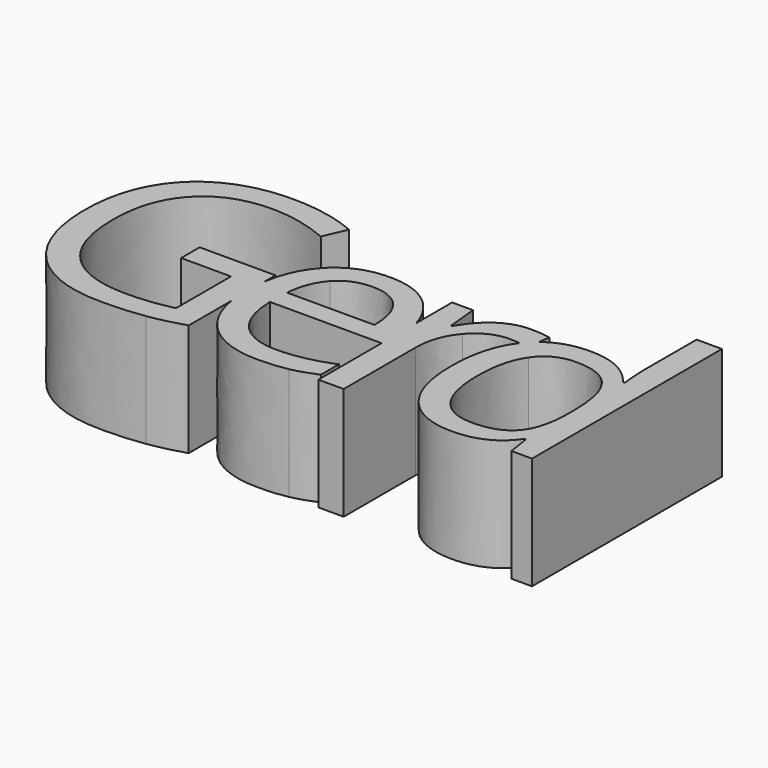
from build123d import *

# Parameters (mm, degrees)
F1_DEPTH = 10


with BuildPart() as f1:
    # F0 (on Top) → F1 (new body)
    with BuildSketch(Plane.XY):
        with BuildLine():
            Line((-19.2639721345, 10.390625), (-26.0044235234, 10.390625))
            Line((-26.0044235234, 10.390625), (-26.0044235234, 8.3289930556))
            Line((-26.0044235234, 8.3289930556), (-21.5729999123, 8.3289930556))
            Line((-21.5729999123, 8.3289930556), (-21.5729999123, 2.2265625))
            add(Edge.make_bspline(
                [(-25.6007776901, 1.7491319444), (-23.5391457456, 1.7491319444), (-21.5729999123, 2.2265625)],
                knots=[0, 0, 0, 1, 1, 1], degree=2))
            add(Edge.make_bspline(
                [(-31.3581561623, 3.8237847222), (-29.3985207456, 1.7491319444), (-25.6007776901, 1.7491319444)],
                knots=[0, 0, 0, 1, 1, 1], degree=2))
            add(Edge.make_bspline(
                [(-33.317791579, 9.9131944444), (-33.317791579, 5.8984375), (-31.3581561623, 3.8237847222)],
                knots=[0, 0, 0, 1, 1, 1], degree=2))
            add(Edge.make_bspline(
                [(-31.2822013012, 15.8962673611), (-33.317791579, 13.7413194444), (-33.317791579, 9.9131944444)],
                knots=[0, 0, 0, 1, 1, 1], degree=2))
            add(Edge.make_bspline(
                [(-25.6268193567, 18.0512152778), (-29.2466110234, 18.0512152778), (-31.2822013012, 15.8962673611)],
                knots=[0, 0, 0, 1, 1, 1], degree=2))
            add(Edge.make_bspline(
                [(-20.4575485234, 16.9140625), (-23.1441804679, 18.0512152778), (-25.6268193567, 18.0512152778)],
                knots=[0, 0, 0, 1, 1, 1], degree=2))
            Line((-20.4575485234, 16.9140625), (-19.5634513012, 18.9496527778))
            add(Edge.make_bspline(
                [(-25.4792499123, 20.1128472222), (-22.302166579, 20.1128472222), (-19.5634513012, 18.9496527778)],
                knots=[0, 0, 0, 1, 1, 1], degree=2))
            add(Edge.make_bspline(
                [(-30.9414894956, 18.88671875), (-28.6085901901, 20.1128472222), (-25.4792499123, 20.1128472222)],
                knots=[0, 0, 0, 1, 1, 1], degree=2))
            add(Edge.make_bspline(
                [(-34.5157082456, 15.3342013889), (-33.2743888012, 17.6605902778), (-30.9414894956, 18.88671875)],
                knots=[0, 0, 0, 1, 1, 1], degree=2))
            add(Edge.make_bspline(
                [(-35.7570276901, 9.9131944444), (-35.7570276901, 13.0078125), (-34.5157082456, 15.3342013889)],
                knots=[0, 0, 0, 1, 1, 1], degree=2))
            add(Edge.make_bspline(
                [(-33.2483471345, 2.4066840278), (-35.7570276901, 5.0868055556), (-35.7570276901, 9.9131944444)],
                knots=[0, 0, 0, 1, 1, 1], degree=2))
            add(Edge.make_bspline(
                [(-26.2387985234, -0.2734375), (-30.739666579, -0.2734375), (-33.2483471345, 2.4066840278)],
                knots=[0, 0, 0, 1, 1, 1], degree=2))
            add(Edge.make_bspline(
                [(-22.4670971345, -0.0151909722), (-24.0947013012, -0.2734375), (-26.2387985234, -0.2734375)],
                knots=[0, 0, 0, 1, 1, 1], degree=2))
            add(Edge.make_bspline(
                [(-19.2639721345, 0.7465277778), (-20.8394929679, 0.2430555556), (-22.4670971345, -0.0151909722)],
                knots=[0, 0, 0, 1, 1, 1], degree=2))
            Line((-19.2639721345, 0.7465277778), (-19.2639721345, 5.4885631994))
            add(Edge.make_bspline(
                [(-19.2639721345, 5.4885631994), (-19.4045971345, 6.3415215978), (-19.4045971345, 7.3090277778)],
                knots=[0.7284854764, 0.7284854764, 0.7284854764, 1, 1, 1], degree=2))
            add(Edge.make_bspline(
                [(-19.4045971345, 7.3090277778), (-19.4045971345, 8.3229729678), (-19.2639721345, 9.2192136542)],
                knots=[0, 0, 0, 0.281800931, 0.281800931, 0.281800931], degree=2))
            Line((-19.2639721345, 9.2192136542), (-19.2639721345, 10.390625))
        make_face()
        with BuildLine():
            add(Edge.make_bspline(
                [(-19.2639721345, 9.2192136542), (-18.9055746526, 11.5033765358), (-17.6337638012, 13.0230034722)],
                knots=[0.281800931, 0.281800931, 0.281800931, 1, 1, 1], degree=2))
            Line((-19.2639721345, 9.2192136542), (-19.2639721345, 5.4885631994))
            add(Edge.make_bspline(
                [(-17.4970450512, 1.7361111111), (-18.8866690394, 3.2000380885), (-19.2639721345, 5.4885631994)],
                knots=[0, 0, 0, 0.7284854764, 0.7284854764, 0.7284854764], degree=2))
            add(Edge.make_bspline(
                [(-12.2952221345, -0.2734375), (-15.5894929679, -0.2734375), (-17.4970450512, 1.7361111111)],
                knots=[0, 0, 0, 1, 1, 1], degree=2))
            add(Edge.make_bspline(
                [(-9.7257776901, -0.0477430556), (-10.7891457456, -0.2734375), (-12.2952221345, -0.2734375)],
                knots=[0, 0, 0, 1, 1, 1], degree=2))
            add(Edge.make_bspline(
                [(-7.4688332456, 0.6901041667), (-8.6624096345, 0.1779513889), (-9.7257776901, -0.0477430556)],
                knots=[0, 0, 0, 1, 1, 1], degree=2))
            Line((-7.4688332456, 0.6901041667), (-7.4688332456, 2.6996527778))
            add(Edge.make_bspline(
                [(-12.2127568567, 1.6970486111), (-9.8125832456, 1.6970486111), (-7.4688332456, 2.6996527778)],
                knots=[0, 0, 0, 1, 1, 1], degree=2))
            add(Edge.make_bspline(
                [(-15.7457429679, 3.0533854167), (-14.4914026901, 1.6970486111), (-12.2127568567, 1.6970486111)],
                knots=[0, 0, 0, 1, 1, 1], degree=2))
            add(Edge.make_bspline(
                [(-17.0695276901, 7.0269097222), (-17.0000832456, 4.4097222222), (-15.7457429679, 3.0533854167)],
                knots=[0, 0, 0, 1, 1, 1], degree=2))
            Line((-17.0695276901, 7.0269097222), (-7.1424443567, 7.0269097222))
            Line((-7.1424443567, 7.0269097222), (-7.1424443567, 10.8617799358))
            add(Edge.make_bspline(
                [(-8.458416579, 13.30078125), (-7.5430016085, 12.2669726101), (-7.1424443567, 10.8617799358)],
                knots=[0, 0, 0, 0.5624309578, 0.5624309578, 0.5624309578], degree=2))
            add(Edge.make_bspline(
                [(-12.8768193567, 15.1388888889), (-10.0860207456, 15.1388888889), (-8.458416579, 13.30078125)],
                knots=[0, 0, 0, 1, 1, 1], degree=2))
            add(Edge.make_bspline(
                [(-17.6337638012, 13.0230034722), (-15.8629304679, 15.1388888889), (-12.8768193567, 15.1388888889)],
                knots=[0, 0, 0, 1, 1, 1], degree=2))
        make_face()
        with BuildLine():
            add(Edge.make_bspline(
                [(-12.9072013012, 13.2508680556), (-14.6953957456, 13.2508680556), (-15.7609339401, 12.0855034722)],
                knots=[0, 0, 0, 1, 1, 1], degree=2))
            add(Edge.make_bspline(
                [(-10.1923575512, 12.1180555556), (-11.1407082456, 13.2508680556), (-12.9072013012, 13.2508680556)],
                knots=[0, 0, 0, 1, 1, 1], degree=2))
            add(Edge.make_bspline(
                [(-9.2440068567, 8.8585069444), (-9.2440068567, 10.9852430556), (-10.1923575512, 12.1180555556)],
                knots=[0, 0, 0, 1, 1, 1], degree=2))
            Line((-9.2440068567, 8.8585069444), (-17.0174443567, 8.8585069444))
            add(Edge.make_bspline(
                [(-15.7609339401, 12.0855034722), (-16.8264721345, 10.9201388889), (-17.0174443567, 8.8585069444)],
                knots=[0, 0, 0, 1, 1, 1], degree=2))
        make_face(mode=Mode.SUBTRACT)
        with BuildLine():
            Line((-19.2639721345, 5.4885631994), (-19.2639721345, 9.2192136542))
            add(Edge.make_bspline(
                [(-19.4045971345, 7.3090277778), (-19.4045971345, 8.3229729678), (-19.2639721345, 9.2192136542)],
                knots=[0, 0, 0, 0.281800931, 0.281800931, 0.281800931], degree=2))
            add(Edge.make_bspline(
                [(-19.2639721345, 5.4885631994), (-19.4045971345, 6.3415215978), (-19.4045971345, 7.3090277778)],
                knots=[0.7284854764, 0.7284854764, 0.7284854764, 1, 1, 1], degree=2))
        make_face()
        with BuildLine():
            Line((-7.1424443567, 14.8654513889), (-7.1424443567, 10.8617799358))
            add(Edge.make_bspline(
                [(-7.1424443567, 10.8617799358), (-6.8308124123, 9.7685456392), (-6.8308124123, 8.4505208333)],
                knots=[0.5624309578, 0.5624309578, 0.5624309578, 1, 1, 1], degree=2))
            Line((-6.8308124123, 8.4505208333), (-6.8308124123, 7.0269097222))
            Line((-6.8308124123, 7.0269097222), (-7.1424443567, 7.0269097222))
            Line((-7.1424443567, 7.0269097222), (-7.1424443567, 0))
            Line((-7.1424443567, 0), (-4.8898401901, 0))
            Line((-4.8898401901, 0), (-4.8898401901, 7.9774305556))
            add(Edge.make_bspline(
                [(-3.6094582456, 11.6254340278), (-4.8898401901, 10.1605902778), (-4.8898401901, 7.9774305556)],
                knots=[0, 0, 0, 1, 1, 1], degree=2))
            add(Edge.make_bspline(
                [(-0.5235207456, 13.0902777778), (-2.3290763012, 13.0902777778), (-3.6094582456, 11.6254340278)],
                knots=[0, 0, 0, 1, 1, 1], degree=2))
            add(Edge.make_bspline(
                [(0.3423106553, 13.0253661611), (-0.1244419518, 13.0902777778), (-0.5235207456, 13.0902777778)],
                knots=[0.435903349, 0.435903349, 0.435903349, 1, 1, 1], degree=2))
            add(Edge.make_bspline(
                [(0.3423106553, 13.0253661611), (0.3726429305, 13.0646284266), (0.4035625877, 13.1032986111)],
                knots=[0.9810029626, 0.9810029626, 0.9810029626, 1, 1, 1], degree=2))
            add(Edge.make_bspline(
                [(0.4035625877, 13.1032986111), (0.7975127784, 13.595998983), (1.266219631, 13.9694446802)],
                knots=[0, 0, 0, 0.2420429972, 0.2420429972, 0.2420429972], degree=2))
            Line((1.266219631, 13.9694446802), (1.416583421, 14.9739583333))
            add(Edge.make_bspline(
                [(-0.3585901901, 15.1388888889), (0.6309931433, 15.1388888889), (1.416583421, 14.9739583333)],
                knots=[0, 0, 0, 1, 1, 1], degree=2))
            add(Edge.make_bspline(
                [(-2.9236943567, 14.3511284722), (-1.7561596345, 15.1388888889), (-0.3585901901, 15.1388888889)],
                knots=[0, 0, 0, 1, 1, 1], degree=2))
            add(Edge.make_bspline(
                [(-4.9158818567, 12.1137152778), (-4.091229079, 13.5633680556), (-2.9236943567, 14.3511284722)],
                knots=[0, 0, 0, 1, 1, 1], degree=2))
            Line((-4.9158818567, 12.1137152778), (-5.0243888012, 12.1137152778))
            Line((-5.0243888012, 12.1137152778), (-5.2848054679, 14.8654513889))
            Line((-5.2848054679, 14.8654513889), (-7.1424443567, 14.8654513889))
        make_face()
        with BuildLine():
            add(Edge.make_bspline(
                [(-7.1424443567, 10.8617799358), (-6.8308124123, 9.7685456392), (-6.8308124123, 8.4505208333)],
                knots=[0.5624309578, 0.5624309578, 0.5624309578, 1, 1, 1], degree=2))
            Line((-7.1424443567, 10.8617799358), (-7.1424443567, 7.0269097222))
            Line((-7.1424443567, 7.0269097222), (-6.8308124123, 7.0269097222))
            Line((-6.8308124123, 7.0269097222), (-6.8308124123, 8.4505208333))
        make_face()
        with BuildLine():
            add(Edge.make_bspline(
                [(0.3423106553, 13.0253661611), (0.3726429305, 13.0646284266), (0.4035625877, 13.1032986111)],
                knots=[0.9810029626, 0.9810029626, 0.9810029626, 1, 1, 1], degree=2))
            add(Edge.make_bspline(
                [(1.104083421, 12.8862847222), (0.7029917978, 12.9752059783), (0.3423106553, 13.0253661611)],
                knots=[0, 0, 0, 0.435903349, 0.435903349, 0.435903349], degree=2))
            Line((1.104083421, 12.8862847222), (1.266219631, 13.9694446802))
            add(Edge.make_bspline(
                [(0.4035625877, 13.1032986111), (0.7975127784, 13.595998983), (1.266219631, 13.9694446802)],
                knots=[0, 0, 0, 0.2420429972, 0.2420429972, 0.2420429972], degree=2))
        make_face()
        with BuildLine():
            add(Edge.make_bspline(
                [(1.104083421, 12.8862847222), (0.7029917978, 12.9752059783), (0.3423106553, 13.0253661611)],
                knots=[0, 0, 0, 0.435903349, 0.435903349, 0.435903349], degree=2))
            add(Edge.make_bspline(
                [(-1.224041579, 7.3914930556), (-1.224041579, 10.9978711344), (0.3423106553, 13.0253661611)],
                knots=[0, 0, 0, 0.9810029626, 0.9810029626, 0.9810029626], degree=2))
            add(Edge.make_bspline(
                [(0.397052171, 1.7209201389), (-1.224041579, 3.7152777778), (-1.224041579, 7.3914930556)],
                knots=[0, 0, 0, 1, 1, 1], degree=2))
            add(Edge.make_bspline(
                [(4.9348125877, -0.2734375), (2.018145921, -0.2734375), (0.397052171, 1.7209201389)],
                knots=[0, 0, 0, 1, 1, 1], degree=2))
            add(Edge.make_bspline(
                [(9.6006111988, 1.9921875), (8.0424514766, -0.2734375), (4.9348125877, -0.2734375)],
                knots=[0, 0, 0, 1, 1, 1], degree=2))
            Line((9.6006111988, 1.9921875), (9.7221389766, 1.9921875))
            Line((9.7221389766, 1.9921875), (10.0216181433, 0))
            Line((10.0216181433, 0), (11.8532153655, 0))
            Line((11.8532153655, 0), (11.8532153655, 21.1067708333))
            Line((11.8532153655, 21.1067708333), (9.6006111988, 21.1067708333))
            Line((9.6006111988, 21.1067708333), (9.6006111988, 15.0564236111))
            Line((9.6006111988, 15.0564236111), (9.6570348099, 14.0104166667))
            Line((9.6570348099, 14.0104166667), (9.752520921, 12.9383680556))
            Line((9.752520921, 12.9383680556), (9.5745695321, 12.9383680556))
            add(Edge.make_bspline(
                [(4.9348125877, 15.1388888889), (7.9599861988, 15.1388888889), (9.5745695321, 12.9383680556)],
                knots=[0, 0, 0, 1, 1, 1], degree=2))
            add(Edge.make_bspline(
                [(1.266219631, 13.9694446802), (2.7339738946, 15.1388888889), (4.9348125877, 15.1388888889)],
                knots=[0.2420429972, 0.2420429972, 0.2420429972, 1, 1, 1], degree=2))
            Line((1.266219631, 13.9694446802), (1.104083421, 12.8862847222))
        make_face()
        with BuildLine():
            add(Edge.make_bspline(
                [(5.221270921, 1.6145833333), (7.525958421, 1.6145833333), (8.5632848099, 2.8689236111)],
                knots=[0, 0, 0, 1, 1, 1], degree=2))
            add(Edge.make_bspline(
                [(2.154864671, 3.06640625), (3.1987014766, 1.6145833333), (5.221270921, 1.6145833333)],
                knots=[0, 0, 0, 1, 1, 1], degree=2))
            add(Edge.make_bspline(
                [(1.1110278655, 7.3654513889), (1.1110278655, 4.5182291667), (2.154864671, 3.06640625)],
                knots=[0, 0, 0, 1, 1, 1], degree=2))
            add(Edge.make_bspline(
                [(2.1613750877, 11.7122395833), (1.1110278655, 10.1736111111), (1.1110278655, 7.3654513889)],
                knots=[0, 0, 0, 1, 1, 1], degree=2))
            add(Edge.make_bspline(
                [(5.1952292544, 13.2508680556), (3.2117223099, 13.2508680556), (2.1613750877, 11.7122395833)],
                knots=[0, 0, 0, 1, 1, 1], degree=2))
            add(Edge.make_bspline(
                [(8.5502639766, 11.9010416667), (7.4999167544, 13.2508680556), (5.1952292544, 13.2508680556)],
                knots=[0, 0, 0, 1, 1, 1], degree=2))
            add(Edge.make_bspline(
                [(9.6006111988, 7.3914930556), (9.6006111988, 10.5512152778), (8.5502639766, 11.9010416667)],
                knots=[0, 0, 0, 1, 1, 1], degree=2))
            Line((9.6006111988, 7.3914930556), (9.6006111988, 6.9184027778))
            add(Edge.make_bspline(
                [(8.5632848099, 2.8689236111), (9.6006111988, 4.1232638889), (9.6006111988, 6.9184027778)],
                knots=[0, 0, 0, 1, 1, 1], degree=2))
        make_face(mode=Mode.SUBTRACT)
    extrude(amount=F1_DEPTH)


solid = f1.part
